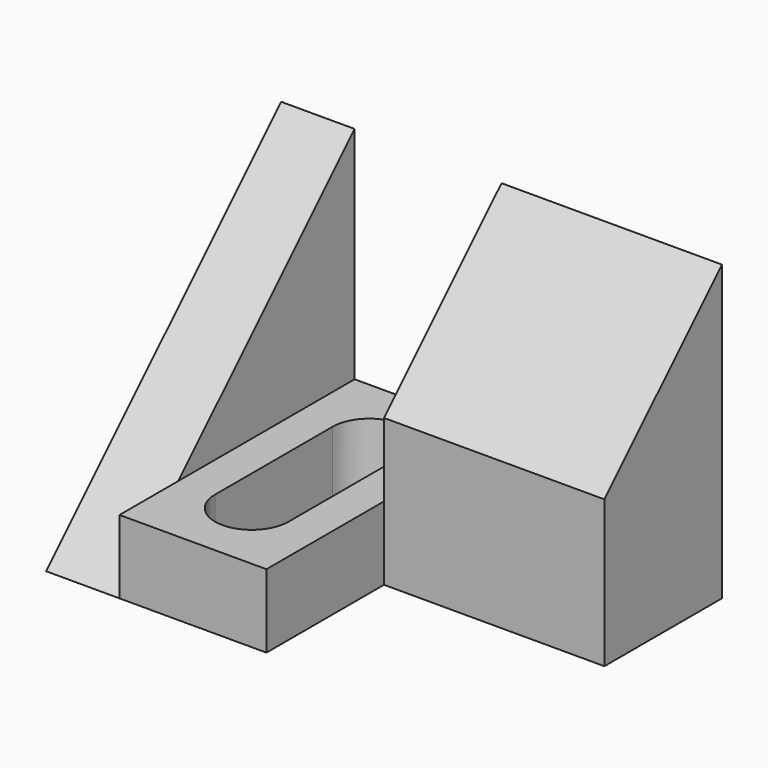
from build123d import *

# Parameters (mm, degrees)
F0_W      = 6.35
F0_H      = 25.4
F1_DEPTH  = 25.4
F2_W      = 12.7
F2_H      = 25.4
F3_DEPTH  = 6.35
F4_W      = 19.05
F4_H      = 25.4
F5_DEPTH  = 12.7
F6_W      = 12.7
F6_H      = 12.7
F7_DEPTH  = 25.4
F9_DEPTH  = 6.35
F11_DEPTH = 19.05


with BuildPart() as f1:
    # F0 (on Top) → F1 (new body)
    with BuildSketch(Plane.XY):
        with Locations((-32.6305792749, 15.0207322229)):
            Rectangle(F0_W, F0_H)
    extrude(amount=F1_DEPTH)

    # F8 (on face) → F9 (cut)
    with BuildSketch(Plane(origin=(-35.8055792749, 0, 0), x_dir=(0, -1, 0), z_dir=(-1, 0, 0))):
        Polygon((-27.7207322229, 25.4), (-2.3207322229, 0), (-2.3207322229, 25.4), align=None)
    extrude(amount=-F9_DEPTH, mode=Mode.SUBTRACT)


with BuildPart() as f3:
    # F2 (on face) → F3 (new body)
    with BuildSketch(Plane(origin=(0, 0, 0), x_dir=(1, 0, 0), z_dir=(0, 0, -1))):
        with Locations((-23.1055792749, -15.0207322229)):
            Rectangle(F2_W, F2_H)
        with BuildLine():
            Line((-19.9305792749, -8.6707322229), (-19.9305792749, -21.3707322229))
            ThreePointArc((-19.9305792749, -21.3707322229), (-23.1055792749, -24.5457322229), (-26.2805792749, -21.3707322229))
            Line((-26.2805792749, -21.3707322229), (-26.2805792749, -8.6707322229))
            ThreePointArc((-26.2805792749, -8.6707322229), (-23.1055792749, -5.4957322229), (-19.9305792749, -8.6707322229))
        make_face(mode=Mode.SUBTRACT)
    extrude(amount=-F3_DEPTH)


with BuildPart() as f5:
    # F4 (on face) → F5 (new body)
    with BuildSketch(Plane(origin=(0, 0, 0), x_dir=(1, 0, 0), z_dir=(0, 0, -1))):
        with Locations((-7.2305792749, -15.0207322229)):
            Rectangle(F4_W, F4_H)
    extrude(amount=-F5_DEPTH)

    # F6 (on face) → F7 (cut)
    with BuildSketch(Plane.YZ.offset(2.2944207251)):
        with Locations((8.6707322229, 6.35)):
            Rectangle(F6_W, F6_H)
    extrude(amount=-F7_DEPTH, mode=Mode.SUBTRACT)

    # F10 (on face) → F11 (join)
    with BuildSketch(Plane.YZ.offset(2.2944207251)):
        Polygon((27.7207322229, 25.4), (15.0207322229, 12.7), (27.7207322229, 12.7), align=None)
    extrude(amount=-F11_DEPTH)


solid = Compound([f1.part, f3.part, f5.part])
